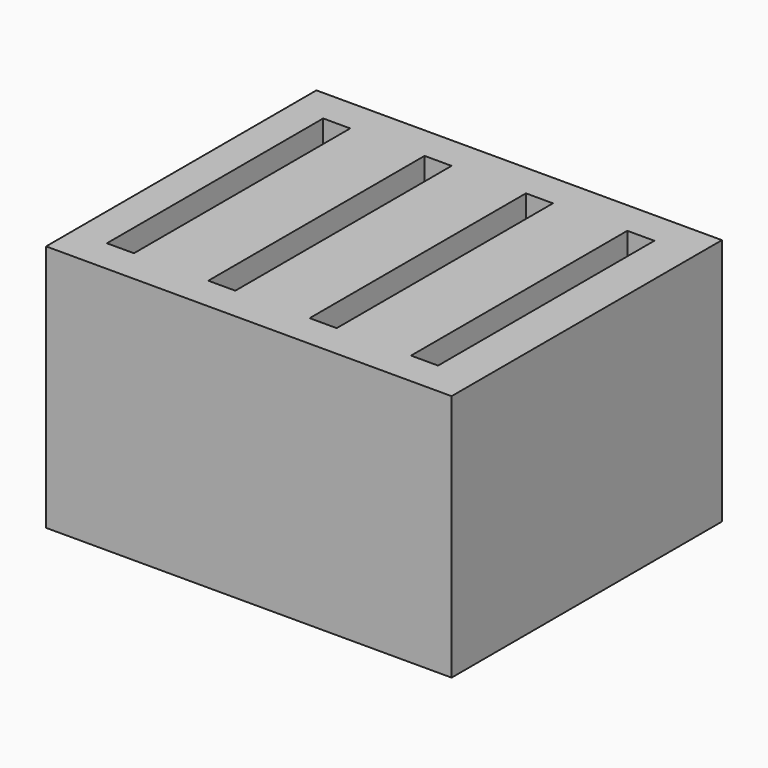
from build123d import *

# Parameters (mm, degrees)
BOX_W        = 2.4
BOX_H        = 24
BOX_DEPTH    = 22
BOX001_W     = 2.4
BOX001_H     = 24
BOX001_DEPTH = 22
BOX002_W     = 2.4
BOX002_H     = 24
BOX002_DEPTH = 22
BOX003_W     = 2.4
BOX003_H     = 24
BOX003_DEPTH = 22
BOX004_W     = 36
BOX004_H     = 30
BOX004_DEPTH = 22


with BuildPart() as box:
    # Box → Box (new body)
    with BuildSketch(Plane.XY):
        with Locations((1.2, 12)):
            Rectangle(BOX_W, BOX_H)
    extrude(amount=BOX_DEPTH)


with BuildPart() as box001:
    # Box001 → Box001 (new body)
    with BuildSketch(Plane(origin=(9, 0, 0), x_dir=(1, 0, 0), z_dir=(0, 0, 1))):
        with Locations((1.2, 12)):
            Rectangle(BOX001_W, BOX001_H)
    extrude(amount=BOX001_DEPTH)


with BuildPart() as box002:
    # Box002 → Box002 (new body)
    with BuildSketch(Plane(origin=(18, 0, 0), x_dir=(1, 0, 0), z_dir=(0, 0, 1))):
        with Locations((1.2, 12)):
            Rectangle(BOX002_W, BOX002_H)
    extrude(amount=BOX002_DEPTH)


with BuildPart() as ranuras:
    # Box003 → Box003 (new body)
    with BuildSketch(Plane(origin=(27, 0, 0), x_dir=(1, 0, 0), z_dir=(0, 0, 1))):
        with Locations((1.2, 12)):
            Rectangle(BOX003_W, BOX003_H)
    extrude(amount=BOX003_DEPTH)

    # Fusion: union Box, Box001, Box002
    add(box.part)
    add(box001.part)
    add(box002.part)


with BuildPart() as ranuras_1:
    # Fusion placement: moved
    add(ranuras.part.moved(Location((0, 0, 3))))


with BuildPart() as cut:
    # Box004 → Box004 (new body)
    with BuildSketch(Plane(origin=(-3, -3, 0), x_dir=(1, 0, 0), z_dir=(0, 0, 1))):
        with Locations((18, 15)):
            Rectangle(BOX004_W, BOX004_H)
    extrude(amount=BOX004_DEPTH)

    # Cut: cut Ranuras
    add(ranuras_1.part, mode=Mode.SUBTRACT)


solid = cut.part
